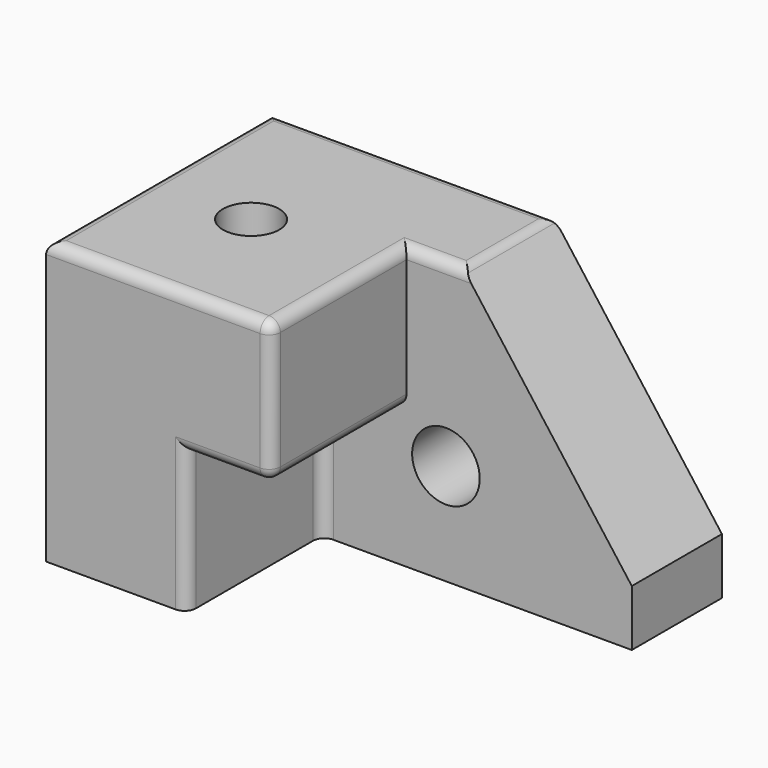
from build123d import *

# Parameters (mm, degrees)
F0_W     = 203.2
F0_H     = 127
F1_DEPTH = 127
F3_DEPTH = 76.2
F4_SIZE2 = 101.6
F4_SIZE  = 76.2
F5_R     = 5.08
F6_R     = 15.24
F7_DEPTH = 50.8
F8_R     = 12.7
F9_DEPTH = 127


with BuildPart() as f1:
    # F0 (on Front) → F1 (new body)
    with BuildSketch(Plane.XZ):
        with Locations((-34.4487503171, -10.7558194239)):
            Rectangle(F0_W, F0_H)
    extrude(amount=F1_DEPTH)

    # F2 (on face) → F3 (cut)
    with BuildSketch(Plane.XZ.offset(127)):
        Polygon((67.1512496829, 52.7441805761), (-34.4487503171, 52.7441805761), (-34.4487503171, -10.7558194239), (-72.5487503171, -10.7558194239), (-72.5487503171, -74.2558194239), (67.1512496829, -74.2558194239), align=None)
    extrude(amount=-F3_DEPTH, mode=Mode.SUBTRACT)

    # F4
    f4_edges = [f1.edges().sort_by_distance(p)[0] for p in [
        (67.15125, -25.4, 52.744181),
    ]]
    f4_side = f1.faces().sort_by_distance((-56.220179, -52.614286, 52.744181))[0]
    chamfer(f4_edges, length=F4_SIZE, length2=F4_SIZE2, reference=f4_side)

    # F5
    f5_edges = [f1.edges().sort_by_distance(p)[0] for p in [
        (-136.04875, -63.5, 52.744181),
        (-85.24875, -127, 52.744181),
        (-34.44875, -127, 20.994181),
        (-53.49875, -127, -10.755819),
        (-72.54875, -127, -42.505819),
        (-72.54875, -50.8, -42.505819),
        (-34.44875, -88.9, -10.755819),
        (-34.44875, -88.9, 52.744181),
        (-21.74875, -50.8, 52.744181),
        (-72.54875, 0, 52.744181),
        (-9.04875, -25.4, 52.744181),
    ]]
    fillet(f5_edges, radius=F5_R)

    # F6 (on face) → F7 (cut, through all)
    with BuildSketch(Plane.XZ.offset(50.8)):
        with Locations((-16.6687503171, -28.5358194239)):
            Circle(F6_R)
    extrude(amount=-F7_DEPTH, mode=Mode.SUBTRACT)

    # F8 (on face) → F9 (cut, through all)
    with BuildSketch(Plane.XY.offset(52.7441805761)):
        with Locations((-90.3287503171, -68.58)):
            Circle(F8_R)
    extrude(amount=-F9_DEPTH, mode=Mode.SUBTRACT)


solid = f1.part
